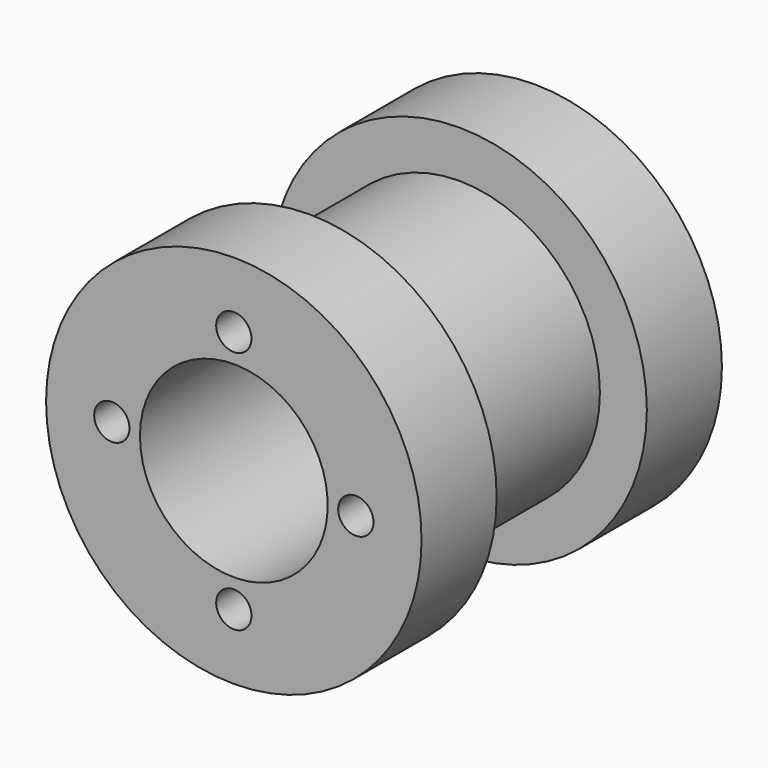
from build123d import *

# Parameters (mm, degrees)
F0_R     = 12.7
F1_DEPTH = 6.35
F2_R     = 9.525
F3_DEPTH = 12.7
F4_R     = 12.7
F5_DEPTH = 6.35
F7_D     = 12.7
F8_D     = 2.3876


with BuildPart() as f1:
    # F0 (on Front) → F1 (new body)
    with BuildSketch(Plane.XZ):
        Circle(F0_R)
    extrude(amount=F1_DEPTH)

    # F2 (on face) → F3 (join)
    with BuildSketch(Plane(origin=(0, 0, 0), x_dir=(-1, 0, 0), z_dir=(0, 1, 0))):
        Circle(F2_R)
    extrude(amount=F3_DEPTH)

    # F4 (on face) → F5 (join)
    with BuildSketch(Plane(origin=(0, 12.7, 0), x_dir=(-1, 0, 0), z_dir=(0, 1, 0))):
        Circle(F4_R)
    extrude(amount=F5_DEPTH)

    # F7 (through all)
    with Locations(Plane.XZ.offset(6.35)):
        with Locations((0, 0)):
            Hole(F7_D / 2)

    # F8 (through all)
    with Locations(Plane.XZ.offset(6.35)):
        with Locations((0, 8.255), (-8.2519316698, 0.2250526986), (0, -8.255), (8.255, 0)):
            Hole(F8_D / 2)


solid = f1.part
